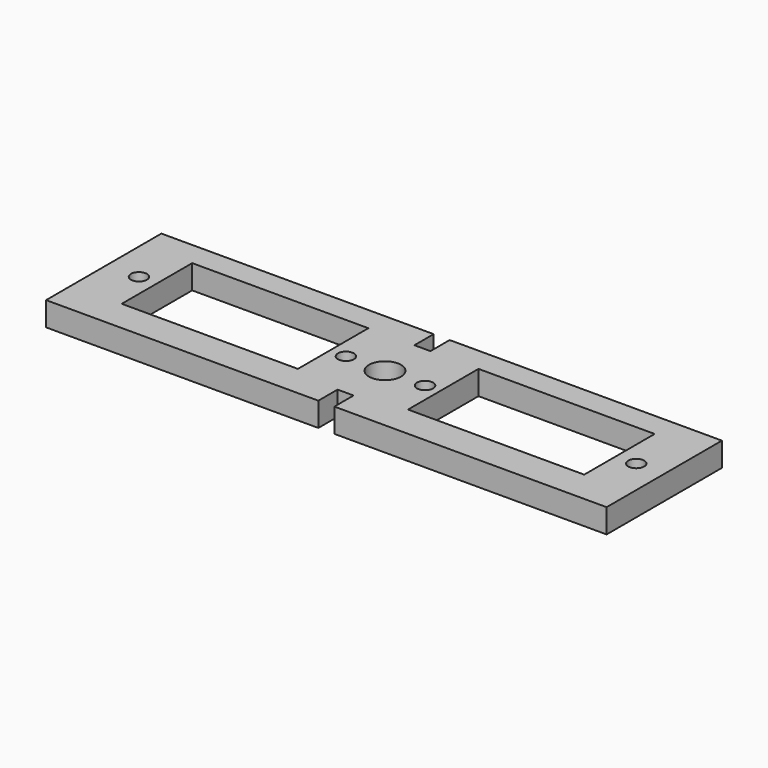
from build123d import *

# Parameters (mm, degrees)
F0_R     = 2.54
F0_W     = 55.88
F0_H     = 27.94
F0_R_2   = 5.08
F1_DEPTH = 7.62


with BuildPart() as f1:
    # F0 (on Top) → F1 (new body)
    with BuildSketch(Plane.XY):
        Polygon((-0.627892, 7.62), (-86.987892, 7.62), (-86.987892, -38.1), (-0.627892, -38.1), (-0.627892, -30.48), (4.452108, -30.48), (4.452108, -38.1), (90.812108, -38.1), (90.812108, 7.62), (4.452108, 7.62), (4.452108, 0), (-0.627892, 0), align=None)
        with Locations((-76.827892, -13.97)):
            Circle(F0_R, mode=Mode.SUBTRACT)
        with Locations((-43.18, -13.97)):
            Rectangle(F0_W, F0_H, mode=Mode.SUBTRACT)
        with Locations((-10.16, -15.24)):
            Circle(F0_R, mode=Mode.SUBTRACT)
        with Locations((2.226054, -15.24)):
            Circle(F0_R_2, mode=Mode.SUBTRACT)
        with Locations((14.926054, -15.24)):
            Circle(F0_R, mode=Mode.SUBTRACT)
        with Locations((47.632108, -13.97)):
            Rectangle(F0_W, F0_H, mode=Mode.SUBTRACT)
        with Locations((81.922108, -15.24)):
            Circle(F0_R, mode=Mode.SUBTRACT)
    extrude(amount=F1_DEPTH)


solid = f1.part
